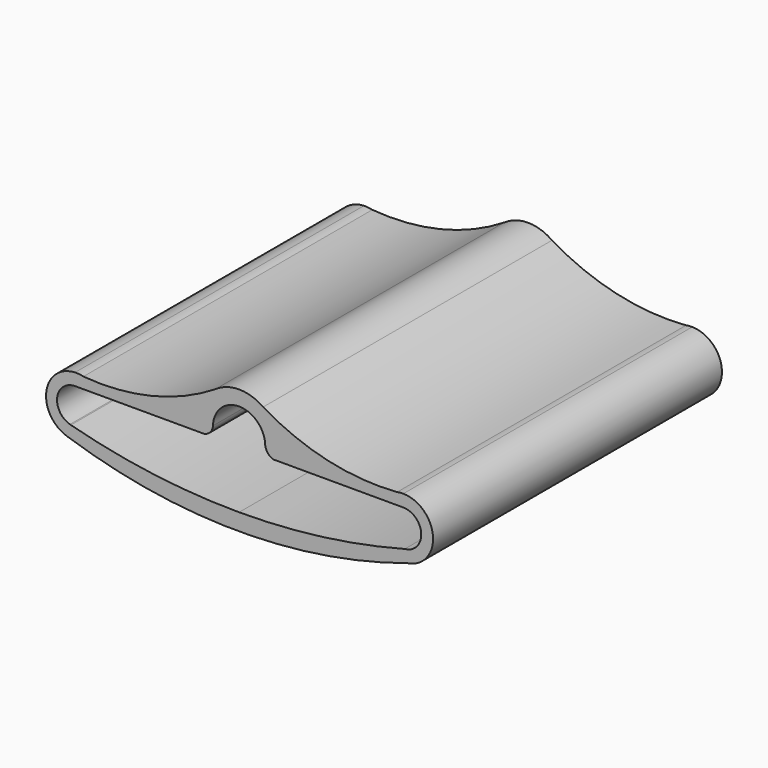
from build123d import *

# Parameters (mm, degrees)
F2_DEPTH = 30
F3_DEPTH = 30.001


with BuildPart() as f2:
    # F1 (on Front) → F2 (new body)
    with BuildSketch(Plane.XZ):
        with BuildLine():
            ThreePointArc((-13.628092, 2.498427), (-13.282564, 2.458935), (-12.936335, 2.42617))
            ThreePointArc((-12.936335, 2.42617), (-13.279688, 2.486472), (-13.628092, 2.498427))
        make_face()
        with BuildLine():
            ThreePointArc((-1.995452, 5.049623), (-7.254227, 2.855159), (-12.936335, 2.42617))
            ThreePointArc((-12.936335, 2.42617), (-13.282564, 2.458935), (-13.628092, 2.498427))
            ThreePointArc((-13.628092, 2.498427), (-16.019104, 0.317987), (-14.255634, -2.395208))
            ThreePointArc((-14.255634, -2.395208), (-0.148783, -4.695078), (13.970789, -2.474639))
            ThreePointArc((13.970789, -2.474639), (16.110221, 0.163832), (13.644095, 2.499838))
            ThreePointArc((13.644095, 2.499838), (13.386962, 2.474302), (13.129503, 2.452288))
            ThreePointArc((13.129503, 2.452288), (7.36113, 2.887834), (1.995452, 5.049623))
            ThreePointArc((1.995452, 5.049623), (0, 5.691083), (-1.995452, 5.049623))
        make_face()
        with BuildLine():
            ThreePointArc((13.644095, 2.499838), (13.385567, 2.489395), (13.129503, 2.452288))
            ThreePointArc((13.129503, 2.452288), (13.386962, 2.474302), (13.644095, 2.499838))
        make_face()
    extrude(amount=F2_DEPTH)

    # F0 (on Front) → F3 (cut, through all)
    with BuildSketch(Plane.XZ):
        with BuildLine():
            Line((-2.934361, 1.4968), (-13.616795, 1.499978))
            ThreePointArc((-13.616795, 1.499978), (-15.108627, 0.221025), (-14.054368, -1.437234))
            ThreePointArc((-14.054368, -1.437234), (-14.014174, -1.448054), (-13.973971, -1.458842))
            ThreePointArc((-13.973971, -1.458842), (-7.047266, -2.835816), (0, -3.295535))
            Line((0, -3.295535), (0, 4.444465))
            ThreePointArc((0, 4.444465), (-1.516001, 3.827089), (-2.169382, 2.326253))
            ThreePointArc((-2.169382, 2.326253), (-2.403217, 1.774428), (-2.934361, 1.4968))
        make_face()
        with BuildLine():
            ThreePointArc((-13.973971, -1.458842), (-14.014174, -1.448054), (-14.054368, -1.437234))
            ThreePointArc((-14.054368, -1.437234), (-14.014319, -1.448596), (-13.973971, -1.458842))
        make_face()
        with BuildLine():
            Line((0, 4.444465), (0, -3.295535))
            ThreePointArc((0, -3.295535), (6.942098, -2.843865), (13.768233, -1.501997))
            ThreePointArc((13.768233, -1.501997), (15.131236, 0.059457), (13.633205, 1.491873))
            Line((13.633205, 1.491873), (2.844597, 1.495082))
            ThreePointArc((2.844597, 1.495082), (2.383494, 1.810344), (2.169382, 2.326253))
            ThreePointArc((2.169382, 2.326253), (1.516001, 3.827089), (0, 4.444465))
        make_face()
    extrude(amount=F3_DEPTH, mode=Mode.SUBTRACT)


solid = f2.part
